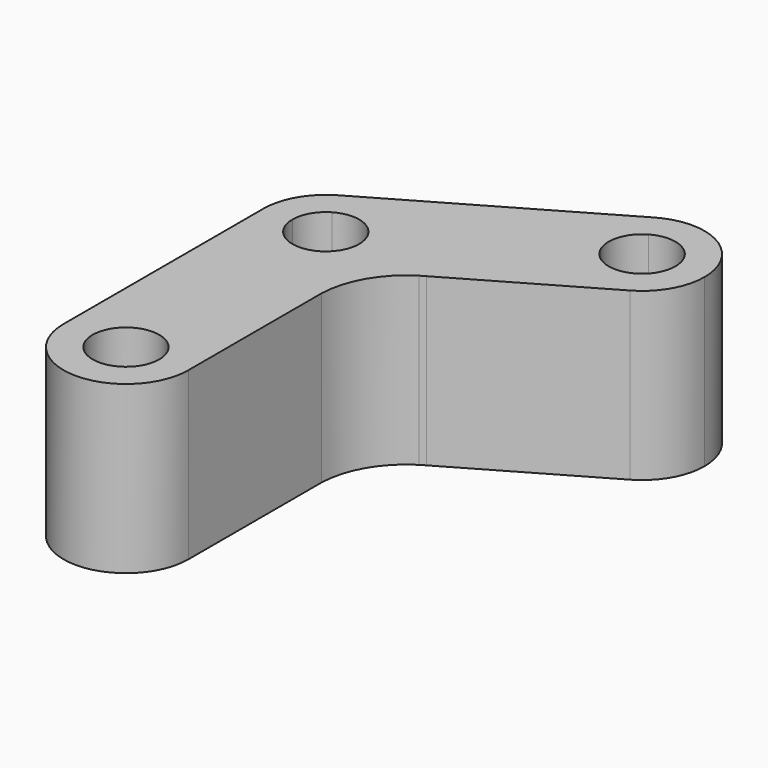
from build123d import *

# Parameters (mm, degrees)
F1_DEPTH = 12.7
F2_DEPTH = 12.7
F3_DEPTH = 12.7


with BuildPart() as f1:
    # F0 (on Top) → F1 (new body, symmetric)
    with BuildSketch(Plane.XY):
        with BuildLine():
            ThreePointArc((-16.7118934188, 0.0784563937), (-7.1868934188, -9.4465436063), (2.3381065812, 0.0784563937))
            Line((2.3381065812, 0.0784563937), (-2.1068934188, 0.0784563937))
            ThreePointArc((-2.1068934188, 0.0784563937), (-7.1868934188, -5.0015436063), (-12.2668934188, 0.0784563937))
            Line((-12.2668934188, 0.0784563937), (-16.7118934188, 0.0784563937))
        make_face()
        with BuildLine():
            ThreePointArc((-16.7118934188, 0.0784563937), (-7.1868934188, 9.6034563937), (2.3381065812, 0.0784563937))
            Line((2.3381065812, 0.0784563937), (2.3381065812, 24.6140933614))
            ThreePointArc((2.3381065812, 24.6140933614), (2.3310444619, 25.0462748775), (2.3381065812, 25.4784563937))
            Line((2.3381065812, 25.4784563937), (2.3381065812, 32.6791950797))
            Line((2.3381065812, 32.6791950797), (-2.4243934188, 29.9295644226))
            ThreePointArc((-2.4243934188, 29.9295644226), (-11.9493934188, 29.9295644226), (-16.7118934188, 38.1784563937))
            Line((-16.7118934188, 38.1784563937), (-16.7118934188, 0.0784563937))
        make_face()
        with BuildLine():
            Line((-2.1068934188, 0.0784563937), (2.3381065812, 0.0784563937))
            ThreePointArc((2.3381065812, 0.0784563937), (-7.1868934188, 9.6034563937), (-16.7118934188, 0.0784563937))
            Line((-16.7118934188, 0.0784563937), (-12.2668934188, 0.0784563937))
            ThreePointArc((-12.2668934188, 0.0784563937), (-7.1868934188, 5.1584563937), (-2.1068934188, 0.0784563937))
        make_face()
        with BuildLine():
            ThreePointArc((2.3381065812, 25.4784563937), (2.3310444619, 25.0462748775), (2.3381065812, 24.6140933614))
            Line((2.3381065812, 24.6140933614), (2.3381065812, 25.4784563937))
        make_face()
        with BuildLine():
            Line((2.3381065812, 32.6791950797), (2.3381065812, 25.4784563937))
            ThreePointArc((2.3381065812, 25.4784563937), (4.1032159035, 31.6601087373), (8.5741292093, 36.2795644226))
            Line((8.5741292093, 36.2795644226), (2.3381065812, 32.6791950797))
        make_face()
        with BuildLine():
            ThreePointArc((-11.9493934188, 46.4273483647), (-15.4357853898, 42.9409563937), (-16.7118934188, 38.1784563937))
            Line((-16.7118934188, 38.1784563937), (-12.2668934188, 38.1784563937))
            ThreePointArc((-12.2668934188, 38.1784563937), (-11.58630247, 40.7184563937), (-9.7268934188, 42.5778654449))
            Line((-9.7268934188, 42.5778654449), (-11.9493934188, 46.4273483647))
        make_face()
        with BuildLine():
            Line((-12.2668934188, 38.1784563937), (-16.7118934188, 38.1784563937))
            ThreePointArc((-16.7118934188, 38.1784563937), (-11.9493934188, 29.9295644226), (-2.4243934188, 29.9295644226))
            Line((-2.4243934188, 29.9295644226), (-4.6468934188, 33.7790473425))
            ThreePointArc((-4.6468934188, 33.7790473425), (-9.7268934188, 33.7790473425), (-12.2668934188, 38.1784563937))
        make_face()
        with BuildLine():
            Line((2.3381065812, 38.1784563937), (2.3381065812, 32.6791950797))
            Line((2.3381065812, 32.6791950797), (8.5741292093, 36.2795644226))
            ThreePointArc((8.5741292093, 36.2795644226), (8.9448783217, 36.5017711555), (9.3226895534, 36.7117459388))
            Line((9.3226895534, 36.7117459388), (30.5711744654, 48.9795644226))
            ThreePointArc((30.5711744654, 48.9795644226), (17.5597824944, 52.4659563937), (21.0461744654, 65.4773483647))
            Line((21.0461744654, 65.4773483647), (-11.9493934188, 46.4273483647))
            ThreePointArc((-11.9493934188, 46.4273483647), (-2.4243934188, 46.4273483647), (2.3381065812, 38.1784563937))
        make_face()
        with BuildLine():
            ThreePointArc((9.3226895534, 36.7117459388), (8.9448783217, 36.5017711555), (8.5741292093, 36.2795644226))
            Line((8.5741292093, 36.2795644226), (9.3226895534, 36.7117459388))
        make_face()
        with BuildLine():
            ThreePointArc((2.3381065812, 38.1784563937), (-2.4243934188, 46.4273483647), (-11.9493934188, 46.4273483647))
            Line((-11.9493934188, 46.4273483647), (-9.7268934188, 42.5778654449))
            ThreePointArc((-9.7268934188, 42.5778654449), (-4.6468934188, 42.5778654449), (-2.1068934188, 38.1784563937))
            Line((-2.1068934188, 38.1784563937), (2.3381065812, 38.1784563937))
        make_face()
        with BuildLine():
            ThreePointArc((35.3336744654, 57.2284563937), (30.5711744654, 65.4773483647), (21.0461744654, 65.4773483647))
            Line((21.0461744654, 65.4773483647), (23.2625173508, 61.6385298803))
            ThreePointArc((23.2625173508, 61.6385298803), (28.3548315801, 61.6385298803), (30.9009886947, 57.2284563937))
            ThreePointArc((30.9009886947, 57.2284563937), (30.218747952, 54.6822992791), (28.3548315801, 52.8183829071))
            Line((28.3548315801, 52.8183829071), (30.5711744654, 48.9795644226))
            ThreePointArc((30.5711744654, 48.9795644226), (34.0575664365, 52.4659563937), (35.3336744654, 57.2284563937))
        make_face()
        with BuildLine():
            Line((23.2625173508, 61.6385298803), (21.0461744654, 65.4773483647))
            ThreePointArc((21.0461744654, 65.4773483647), (17.5597824944, 52.4659563937), (30.5711744654, 48.9795644226))
            Line((30.5711744654, 48.9795644226), (28.3548315801, 52.8183829071))
            ThreePointArc((28.3548315801, 52.8183829071), (21.3986009788, 54.6822992791), (23.2625173508, 61.6385298803))
        make_face()
    extrude(amount=F1_DEPTH, both=True)

    # F0 (on Top) → F2 (join, symmetric)
    with BuildSketch(Plane.XY):
        with BuildLine():
            Line((-4.6468934188, 33.7790473425), (-2.4243934188, 29.9295644226))
            ThreePointArc((-2.4243934188, 29.9295644226), (1.0619985523, 33.4159563937), (2.3381065812, 38.1784563937))
            Line((2.3381065812, 38.1784563937), (-2.1068934188, 38.1784563937))
            ThreePointArc((-2.1068934188, 38.1784563937), (-2.7874843675, 35.6384563937), (-4.6468934188, 33.7790473425))
        make_face()
    extrude(amount=F2_DEPTH, both=True)

    # F0 (on Top) → F3 (join, symmetric)
    with BuildSketch(Plane.XY):
        with BuildLine():
            Line((-2.4243934188, 29.9295644226), (2.3381065812, 32.6791950797))
            Line((2.3381065812, 32.6791950797), (2.3381065812, 38.1784563937))
            ThreePointArc((2.3381065812, 38.1784563937), (1.0619985523, 33.4159563937), (-2.4243934188, 29.9295644226))
        make_face()
    extrude(amount=F3_DEPTH, both=True)


solid = f1.part
